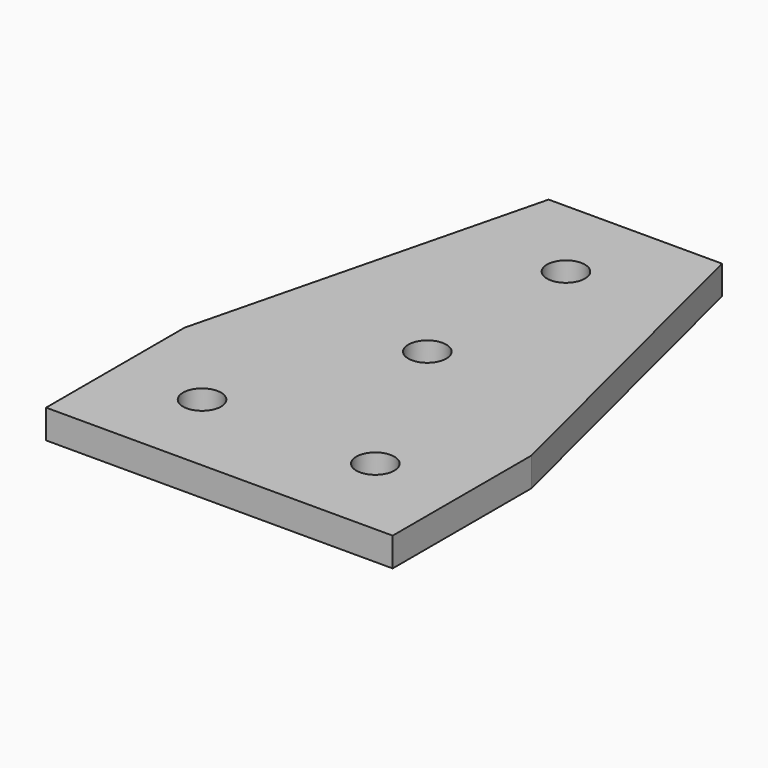
from build123d import *

# Parameters (mm, degrees)
SKETCH_R  = 4.175
PAD_DEPTH = 6.35


with BuildPart() as part:
    # Sketch → Pad (new body)
    with BuildSketch(Plane.XY):
        Polygon((0, 0), (-38.1, 0), (-38.1, 38.1), (-19.05, 114.3), (0, 114.3), (19.05, 114.3), (38.1, 38.1), (38.1, 0), align=None)
        with Locations((-19.05, 19.05)):
            Circle(SKETCH_R, mode=Mode.SUBTRACT)
        with Locations((19.05, 19.05)):
            Circle(SKETCH_R, mode=Mode.SUBTRACT)
        with Locations((0, 95.25)):
            Circle(SKETCH_R, mode=Mode.SUBTRACT)
        with Locations((0, 57.15)):
            Circle(SKETCH_R, mode=Mode.SUBTRACT)
    extrude(amount=PAD_DEPTH)


solid = part.part
